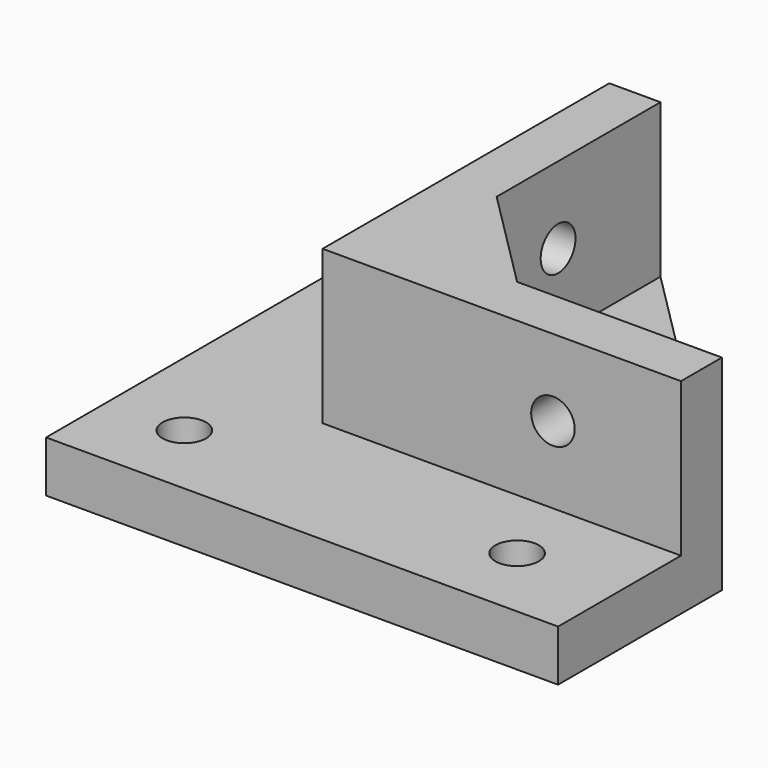
from build123d import *

# Parameters (mm, degrees)
F0_R     = 2.125
F1_DEPTH = 5
F3_DEPTH = 15
F4_R     = 2.125
F5_DEPTH = 5
F6_R     = 2.125
F7_DEPTH = 5
F9_DEPTH = 5
F10_SIZE = 10


with BuildPart() as f1:
    # F0 (on Top) → F1 (new body)
    with BuildSketch(Plane.XY):
        Polygon((0, 20), (0, 50), (-20, 50), (-20, 0), (30, 0), (30, 20), align=None)
        with Locations((-12.5, 7.5)):
            Circle(F0_R, mode=Mode.SUBTRACT)
        with Locations((20, 7.5)):
            Circle(F0_R, mode=Mode.SUBTRACT)
        with Locations((-12.5, 40)):
            Circle(F0_R, mode=Mode.SUBTRACT)
    extrude(amount=F1_DEPTH)

    # F2 (on face) → F3 (join)
    with BuildSketch(Plane.XY.offset(5)):
        Polygon((0, 20), (0, 50), (-5, 50), (-5, 15), (30, 15), (30, 20), align=None)
    extrude(amount=F3_DEPTH)

    # F4 (on face) → F5 (cut)
    with BuildSketch(Plane(origin=(-5, 0, 0), x_dir=(0, -1, 0), z_dir=(-1, 0, 0))):
        with Locations((-37.5, 12.5)):
            Circle(F4_R)
    extrude(amount=-F5_DEPTH, mode=Mode.SUBTRACT)

    # F6 (on face) → F7 (cut)
    with BuildSketch(Plane.XZ.offset(-15)):
        with Locations((17.5, 12.5)):
            Circle(F6_R)
    extrude(amount=-F7_DEPTH, mode=Mode.SUBTRACT)

    # F8 (on Top) → F9 (join)
    with BuildSketch(Plane.XY):
        Polygon((30, 20), (0, 50), (0, 20), align=None)
    extrude(amount=F9_DEPTH)

    # F10
    f10_edges = [f1.edges().sort_by_distance(p)[0] for p in [
        (0, 20, 12.5),
    ]]
    chamfer(f10_edges, length=F10_SIZE)


solid = f1.part
